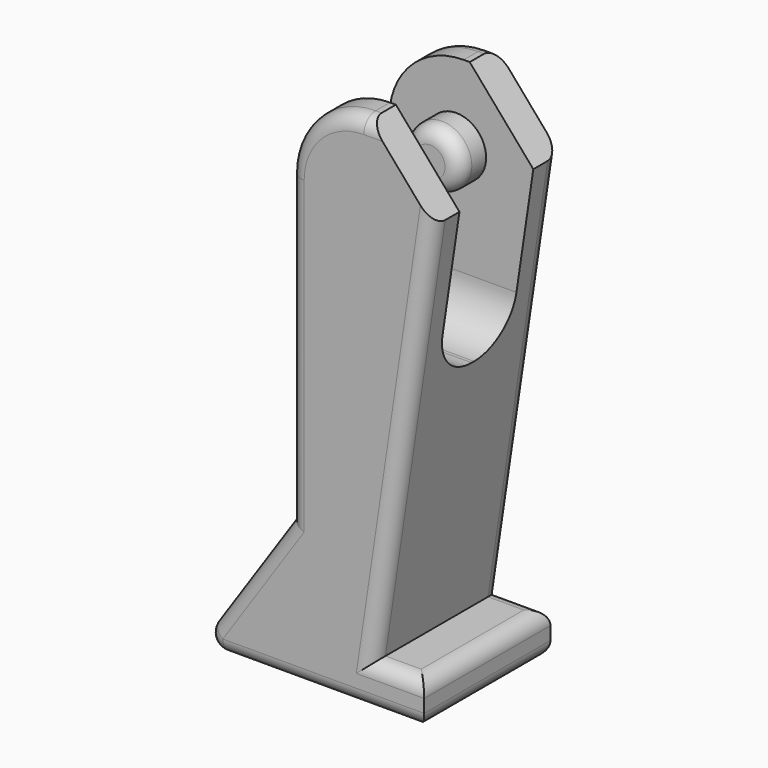
from build123d import *

# Parameters (mm, degrees)
F1_DEPTH = 10.6
F2_R     = 5
F3_SIZE  = 5
F4_W     = 6.2000000016
F4_H     = 15.6
F5_DEPTH = 12.5
F7_R     = 2
F8_DEPTH = 2.2
F10_R    = 1
F11_R    = 3


with BuildPart() as f1:
    # F0 (on Front) → F1 (new body)
    with BuildSketch(Plane.XZ):
        Polygon((-1.36, 9.4), (-7.7, 0), (7.7, 0), (7.7, 2.88), (4.3, 2.88), (9.04, 34.9), (-1.36, 34.9), align=None)
    extrude(amount=F1_DEPTH)

    # F2
    f2_edges = [f1.edges().sort_by_distance(p)[0] for p in [
        (-1.36, -5.3, 34.9),
    ]]
    fillet(f2_edges, radius=F2_R)

    # F3
    f3_edges = [f1.edges().sort_by_distance(p)[0] for p in [
        (9.04, -5.3, 34.9),
    ]]
    chamfer(f3_edges, length=F3_SIZE)

    # F4 (on Right) → F5 (cut, symmetric)
    with BuildSketch(Plane.YZ):
        with Locations((-5.2999999992, 27.100082695)):
            Rectangle(F4_W, F4_H)
    extrude(amount=F5_DEPTH, both=True, mode=Mode.SUBTRACT)

    # F7 (on face) → F8 (join)
    with BuildSketch(Plane.XZ.offset(2.1999999984)):
        with Locations((3.14, 29.6)):
            Circle(F7_R)
    extrude(amount=F8_DEPTH)

    # F9: F1 across plane


with BuildPart() as f1_1:
    add(f1.part)
    add(f1.part.mirror(Plane.XZ.offset(5.3)))

    # F10
    f10_edges = [f1_1.edges().sort_by_distance(p)[0] for p in [
        (1.14, -6.2, 29.6),
        (1.14, -4.4, 29.6),
        (-4.53, 0, 4.7),
        (-7.7, -5.3, 0),
        (-4.53, -10.6, 4.7),
        (-1.36, -10.6, 19.65),
        (-1.36, 0, 19.65),
        (6.303908, 0, 16.41695),
        (6.303908, -10.6, 16.41695),
        (6, -10.6, 2.88),
        (7.7, -5.3, 2.88),
        (6, 0, 2.88),
        (0, 0, 0),
        (7.7, -5.3, 0),
        (0, -10.6, 0),
    ]]
    fillet(f10_edges, radius=F10_R)

    # F11
    f11_edges = [f1_1.edges().sort_by_distance(p)[0] for p in [
        (2.685353, -2.2, 19.300083),
        (2.685353, -8.4, 19.300083),
    ]]
    fillet(f11_edges, radius=F11_R)


solid = f1_1.part
